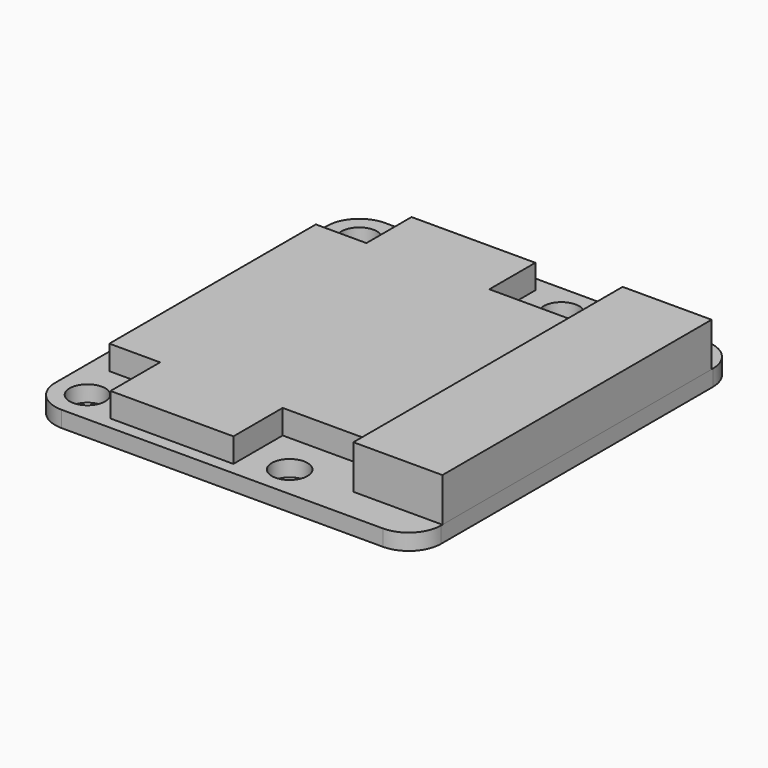
from build123d import *

# Parameters (mm, degrees)
F0_R     = 1.1
F1_DEPTH = 1
F3_DEPTH = 2.7
F5_DEPTH = 2.8
F6_R     = 3.635
F7_DEPTH = 2
F4_W     = 3
F4_H     = 7
F8_DEPTH = 2
F9_DEPTH = 1.5


with BuildPart() as f1:
    # F0 (on Top) → F1 (new body)
    with BuildSketch(Plane.XY):
        with BuildLine():
            Line((21.862, 25), (2, 25))
            ThreePointArc((2, 25), (0.585786, 24.414214), (0, 23))
            Line((0, 23), (0, 2))
            ThreePointArc((0, 2), (0.585786, 0.585786), (2, 0))
            Line((2, 0), (21.862, 0))
            ThreePointArc((21.862, 0), (23.276214, 0.585786), (23.862, 2))
            Line((23.862, 2), (23.862, 23))
            ThreePointArc((23.862, 23), (23.276214, 24.414214), (21.862, 25))
        make_face()
        with Locations((2, 2)):
            Circle(F0_R, mode=Mode.SUBTRACT)
        with Locations((14.5, 2)):
            Circle(F0_R, mode=Mode.SUBTRACT)
        with Locations((2, 23)):
            Circle(F0_R, mode=Mode.SUBTRACT)
        with Locations((14.5, 23)):
            Circle(F0_R, mode=Mode.SUBTRACT)
    extrude(amount=F1_DEPTH)


with BuildPart() as f3:
    # F2 (on face) → F3 (new body)
    with BuildSketch(Plane.XY.offset(1)):
        Polygon((23.862, 2.1), (23.862, 22.9), (18.362, 22.9), (18.362, 20.483647), (18.362, 4.566652), (18.362, 2.1), align=None)
    extrude(amount=F3_DEPTH)


with BuildPart() as f5:
    # F4 (on face) → F5 (new body)
    with BuildSketch(Plane(origin=(0, 0, 0), x_dir=(1, 0, 0), z_dir=(0, 0, -1))):
        Polygon((10.15, -16.75), (18.65, -16.75), (18.65, -8.25), (10.15, -8.25), (10.15, -9.3), (10.15, -16.3), align=None)
    extrude(amount=F5_DEPTH)

    # F6 (on face) → F7 (join)
    with BuildSketch(Plane(origin=(0, 0, -2.8), x_dir=(1, 0, 0), z_dir=(0, 0, -1))):
        with Locations((14.4, -12.5)):
            Circle(F6_R)
    extrude(amount=F7_DEPTH)


with BuildPart() as f8:
    # F4 (on face) → F8 (new body)
    with BuildSketch(Plane(origin=(0, 0, 0), x_dir=(1, 0, 0), z_dir=(0, 0, -1))):
        Polygon((7.15, -18.3), (7.15, -16.3), (7.15, -9.3), (3.15, -9.3), (3.15, -18.3), align=None)
        with Locations((8.65, -12.8)):
            Rectangle(F4_W, F4_H)
    extrude(amount=F8_DEPTH)


with BuildPart() as f9:
    # F2 (on face) → F9 (new body)
    with BuildSketch(Plane.XY.offset(1)):
        Polygon((18.362, 4.566652), (18.362, 20.483647), (12.057766, 20.483647), (12.057766, 24.035065), (4.406919, 24.035065), (4.406919, 20.545406), (1.280087, 20.545406), (1.280087, 4.588489), (4.417327, 4.588489), (4.417327, 0.759022), (12.013837, 0.759022), (12.013837, 4.566652), align=None)
    extrude(amount=F9_DEPTH)


solid = Compound([f1.part, f3.part, f5.part, f8.part, f9.part])
